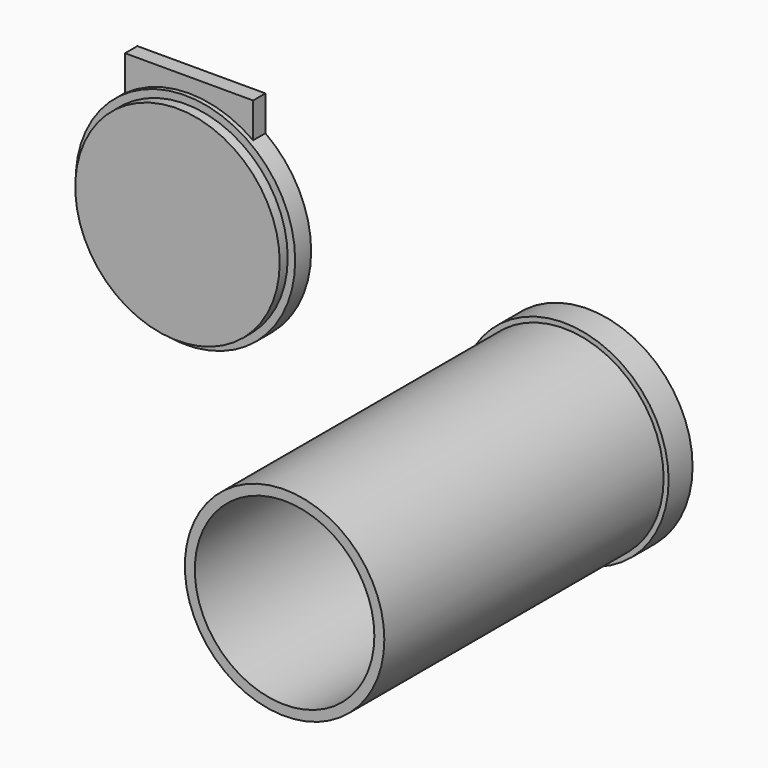
from build123d import *

# Parameters (mm, degrees)
F0_R     = 10
F0_R_2   = 9
F1_DEPTH = 38
F0_R_3   = 10.5
F2_DEPTH = 3
F3_R     = 11
F3_R_2   = 10.25
F4_DEPTH = 2
F5_DEPTH = 3
F6_W     = 12.836099
F6_H     = 1.544234
F7_DEPTH = 19
F8_DEPTH = 1.5


with BuildPart() as f1:
    # F0 (on Front) → F1 (new body)
    with BuildSketch(Plane.XZ):
        Circle(F0_R)
        Circle(F0_R_2, mode=Mode.SUBTRACT)
    extrude(amount=F1_DEPTH)

    # F0 (on Front) → F2 (join)
    with BuildSketch(Plane.XZ):
        Circle(F0_R_3)
        Circle(F0_R, mode=Mode.SUBTRACT)
    extrude(amount=F2_DEPTH)


with BuildPart() as f4:
    # F3 (on Front) → F4 (new body)
    with BuildSketch(Plane.XZ):
        with Locations((-38.736828, 6.549636)):
            Circle(F3_R)
        with Locations((-38.736828, 6.549636)):
            Circle(F3_R_2, mode=Mode.SUBTRACT)
    extrude(amount=F4_DEPTH)

    # F3 (on Front) → F5 (join)
    with BuildSketch(Plane.XZ):
        with Locations((-38.736828, 6.549636)):
            Circle(F3_R_2)
    extrude(amount=F5_DEPTH)

    # F6 (on Top) → F7 (join)
    with BuildSketch(Plane.XY):
        with Locations((-38.736828, -0.772117)):
            Rectangle(F6_W, F6_H)
    extrude(amount=F7_DEPTH)

    # F3 (on Front) → F8 (cut)
    with BuildSketch(Plane.XZ):
        with Locations((-38.736828, 6.549636)):
            Circle(F3_R_2)
    extrude(amount=F8_DEPTH, mode=Mode.SUBTRACT)


solid = Compound([f1.part, f4.part])
